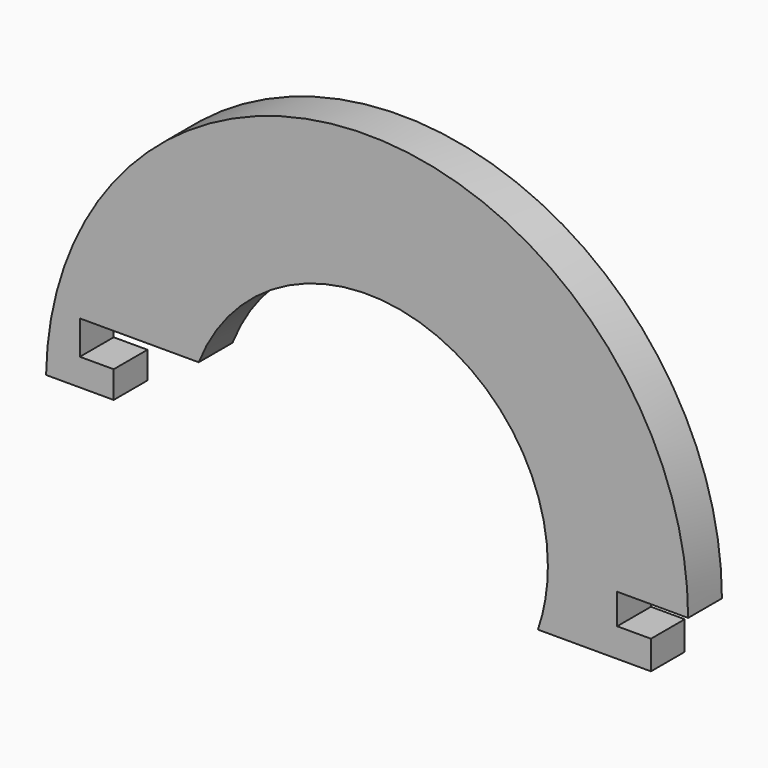
from build123d import *

# Parameters (mm, degrees)
F1_DEPTH = 1.25


with BuildPart() as f1:
    # F0 (on Front) → F1 (new body, symmetric)
    with BuildSketch(Plane.XZ):
        with BuildLine():
            ThreePointArc((19, 0), (0.150005, 18.999408), (-18.997631, 0.3))
            Line((-18.997631, 0.3), (-14.997631, 0.3))
            Line((-14.997631, 0.3), (-14.997631, 1.9))
            Line((-14.997631, 1.9), (-16.997631, 1.9))
            Line((-16.997631, 1.9), (-16.997631, 3.9))
            Line((-16.997631, 3.9), (-9.963935, 3.9))
            ThreePointArc((-9.963935, 3.9), (1.984426, 10.514374), (10.7, 0))
            Line((10.7, 0), (14.8, 0))
            Line((14.8, 0), (19, 0))
        make_face()
        with BuildLine():
            Line((14.8, -1.8), (14.8, 0))
            Line((14.8, 0), (10.7, 0))
            ThreePointArc((10.7, 0), (10.551819, -1.774576), (10.11138, -3.5))
            Line((10.11138, -3.5), (16.8, -3.5))
            Line((16.8, -3.5), (16.8, -1.8))
            Line((16.8, -1.8), (14.8, -1.8))
        make_face()
    extrude(amount=F1_DEPTH, both=True)


solid = f1.part
